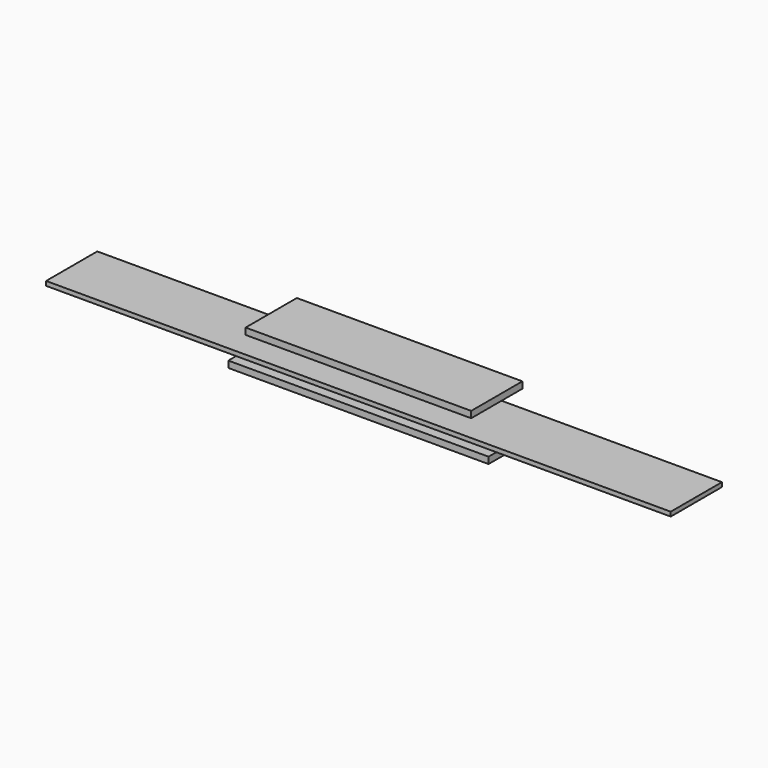
from build123d import *

# Parameters (mm, degrees)
F0_W     = 1524
F0_H     = 374.65
F1_DEPTH = 38.1
F3_W     = 3657.6
F3_H     = 374.65
F4_DEPTH = 25.4
F6_W     = 1320.8
F6_H     = 374.65
F7_DEPTH = 38.1


with BuildPart() as f1:
    # F0 (on Top) → F1 (new body)
    with BuildSketch(Plane.XY):
        Rectangle(F0_W, F0_H)
    extrude(amount=F1_DEPTH)


with BuildPart() as f4:
    # F3 (on offset) → F4 (new body)
    with BuildSketch(Plane.XY.offset(76.2)):
        Rectangle(F3_W, F3_H)
    extrude(amount=F4_DEPTH)


with BuildPart() as f7:
    # F6 (on offset) → F7 (new body)
    with BuildSketch(Plane.XY.offset(203.2)):
        Rectangle(F6_W, F6_H)
    extrude(amount=F7_DEPTH)


solid = Compound([f1.part, f4.part, f7.part])
